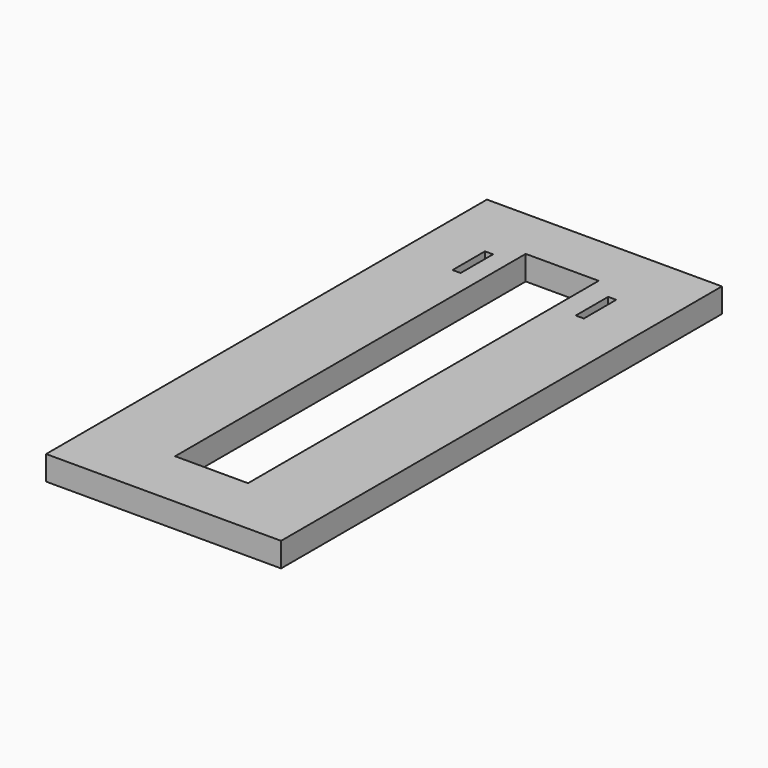
from build123d import *

# Parameters (mm, degrees)
F0_W     = 127
F0_H     = 686.889625
F0_W_2   = 12.7
F0_H_2   = 63.5
F0_H_3   = 93.98
F0_W_3   = 114.3
F0_H_4   = 82.730375
F1_DEPTH = 38.1


with BuildPart() as f1:
    # F0 (on Top) → F1 (new body)
    with BuildSketch(Plane.XY):
        with Locations((-59.372775, 4.420739)):
            Rectangle(F0_W, F0_H)
        with Locations((-32.702775, 290.258352)):
            Rectangle(F0_W_2, F0_H_2, mode=Mode.SUBTRACT)
        with Locations((-59.372775, -386.014073)):
            Rectangle(F0_W, F0_H_3)
        with Locations((61.277225, -386.014073)):
            Rectangle(F0_W_3, F0_H_3)
        with Locations((181.927225, -386.014073)):
            Rectangle(F0_W, F0_H_3)
        with Locations((181.927225, 4.420739)):
            Rectangle(F0_W, F0_H)
        with Locations((160.337225, 290.258352)):
            Rectangle(F0_W_2, F0_H_2, mode=Mode.SUBTRACT)
        with Locations((181.927225, 389.230739)):
            Rectangle(F0_W, F0_H_4)
        with Locations((61.277225, 389.230739)):
            Rectangle(F0_W_3, F0_H_4)
        with Locations((-59.372775, 389.230739)):
            Rectangle(F0_W, F0_H_4)
    extrude(amount=F1_DEPTH)


solid = f1.part
